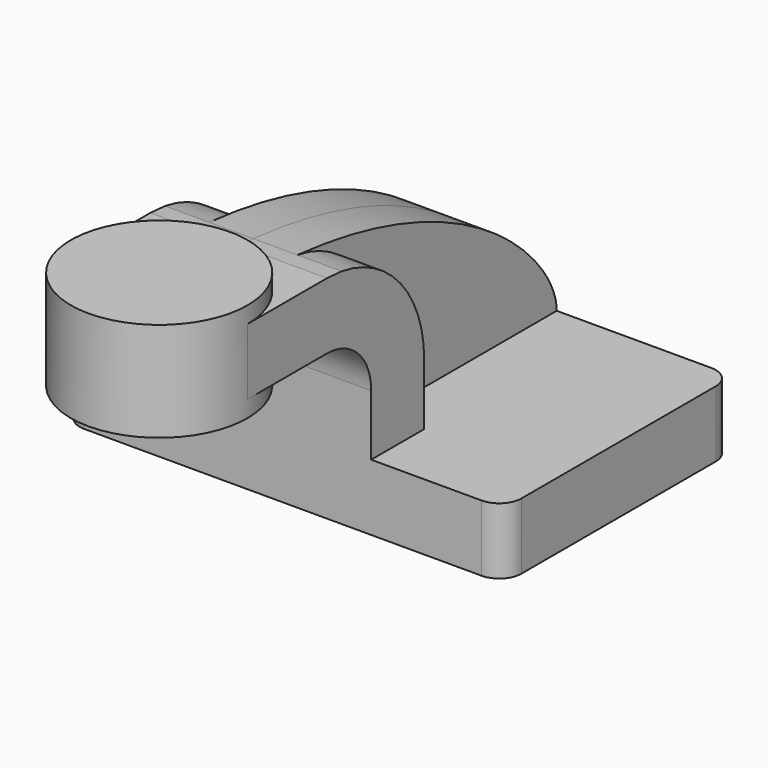
from build123d import *

# Parameters (mm, degrees)
F1_DEPTH = 63.5
F0_W     = 25.4
F0_H     = 19.05
F2_DEPTH = 25.4
F4_DEPTH = 12.7
F5_R     = 6.35


with BuildPart() as f1:
    # F0 (on Right) → F1 (new body, symmetric)
    with BuildSketch(Plane.YZ):
        Polygon((-41.275, 9.525), (-41.275, -9.525), (41.275, -9.525), (41.275, 9.525), (-22.225, 9.525), align=None)
    extrude(amount=F1_DEPTH, both=True)

    # F0 (on Right) → F2 (join, symmetric)
    with BuildSketch(Plane.YZ):
        with BuildLine():
            Line((-41.275, 27.0002), (-41.275, 9.525))
            Line((-41.275, 9.525), (-22.225, 9.525))
            Line((-22.225, 9.525), (-22.225, 27.0002))
            ThreePointArc((-22.225, 27.0002), (-30.6600167011, 49.7606132173), (-51.8906498109, 61.5269267575))
            add(Edge.make_bspline(
                [(-51.8906498109, 61.5269267575), (-53.6187990349, 61.680210909), (-55.3718909395, 61.8132821575), (-57.15, 61.9252)],
                knots=[108.5427292954, 108.5427292954, 108.5427292954, 108.5427292954, 111.5045361635, 111.5045361635, 111.5045361635, 111.5045361635], degree=3))
            Line((-57.15, 61.9252), (-60.325, 61.9252))
            Line((-60.325, 61.9252), (-60.325, 42.8752))
            Line((-60.325, 42.8752), (-57.15, 42.8752))
            ThreePointArc((-57.15, 42.8752), (-45.9246798487, 38.2255201513), (-41.275, 27.0002))
        make_face()
        with Locations((-73.025, 52.4002)):
            Rectangle(F0_W, F0_H)
    extrude(amount=F2_DEPTH, both=True)

    # F0 (on Right) → F3 (revolve)
    with BuildSketch(Plane.YZ):
        Polygon((-85.725, 38.1), (-85.725, 42.8752), (-85.725, 61.9252), (-85.725, 66.675), (-111.125, 66.675), (-111.125, 38.1), align=None)
    revolve(axis=Axis((0, -85.725, 52.3875), (0, 0, -1)))

    # F0 (on Right) → F4 (join, symmetric)
    with BuildSketch(Plane.YZ):
        with BuildLine():
            Line((-22.225, 9.525), (41.275, 9.525))
            add(Edge.make_bspline(
                [(41.275, 9.525), (41.275, 23.1452958025), (11.4416475843, 55.9094503662), (-51.8906498109, 61.5269267575)],
                knots=[0, 0, 0, 0, 108.5427292954, 108.5427292954, 108.5427292954, 108.5427292954], degree=3))
            ThreePointArc((-51.8906498109, 61.5269267575), (-30.6600167011, 49.7606132173), (-22.225, 27.0002))
            Line((-22.225, 27.0002), (-22.225, 9.525))
        make_face()
    extrude(amount=F4_DEPTH, both=True)

    # F5
    f5_edges = [f1.edges().sort_by_distance(p)[0] for p in [
        (-63.5, 41.275, 0),
        (-63.5, -41.275, 0),
        (63.5, 41.275, 0),
        (63.5, -41.275, 0),
    ]]
    fillet(f5_edges, radius=F5_R)


solid = f1.part
